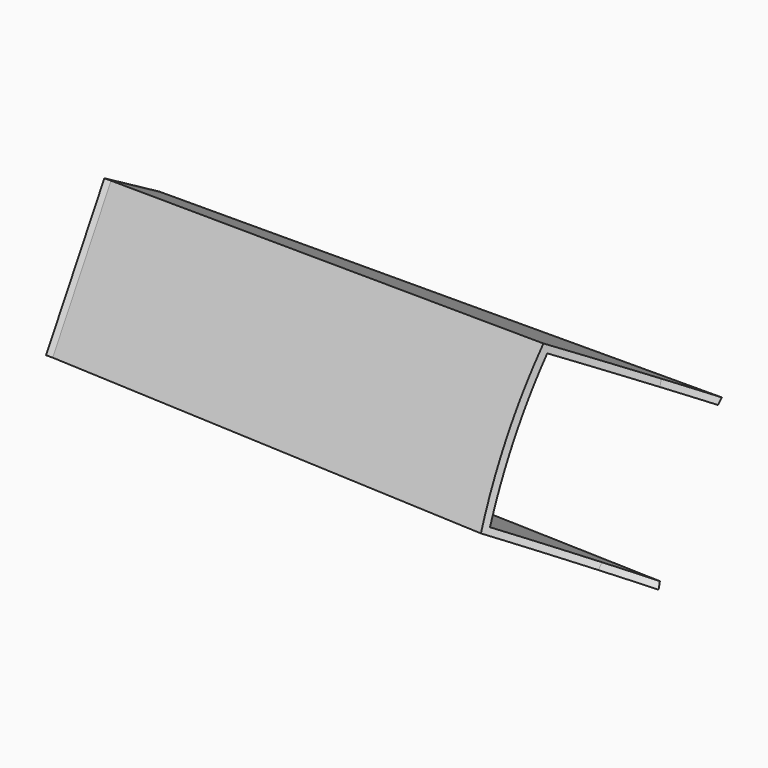
from build123d import *

# Parameters (mm, degrees)
SKETCH121_W             = 69.85
SKETCH121_H             = 38.1
PAD026_DEPTH            = 3.175
BODY036_PLACEMENT_ANGLE = 240


with BuildPart() as part:
    # Sketch119 → AdditiveLoft003 section 0
    with BuildSketch(Plane(origin=(-254, 0, 101.6), x_dir=(0, 1, 0), z_dir=(1, 0, 0))):
        Polygon((-38.1, 69.85), (-38.1, 0), (38.1, 0), (38.1, 69.8500000001), (34.925, 69.8500000001), (34.925, 3.175), (-34.925, 3.175), (-34.925, 69.85), align=None)
    # Sketch120 → AdditiveLoft003 section 1
    with BuildSketch(Plane(origin=(-558.8, 0, 127), x_dir=(0, 1, 0), z_dir=(1, 0, 0))):
        Polygon((-34.925, 82.55), (-34.925, 44.45), (34.925, 44.45), (34.925, 82.55), (31.75, 82.55), (31.75, 47.625), (-31.75, 47.625), (-31.75, 82.55), align=None)
    loft()

    # Sketch121 (on Face3 of AdditiveLoft003) → Pad026 (new body)
    with BuildSketch(Plane(origin=(-558.8, 0, 101.6), x_dir=(0, 1, 0), z_dir=(-1, 0, 0))):
        with Locations((0, -88.9)):
            Rectangle(SKETCH121_W, SKETCH121_H)
    extrude(amount=PAD026_DEPTH)

    # Sketch122 → Groove005 (revolve, cut)
    with BuildSketch(Plane.XZ):
        with BuildLine():
            ThreePointArc((-285.6448342114, 160.9012244898), (-330.0079117171, 85.8263739972), (-345.44, 0))
            Line((-345.44, 0), (0, 0))
            Line((0, 203.2), (0, 0))
            Line((-193.3141946016, 203.2), (0, 203.2))
            ThreePointArc((-193.3141946016, 203.2), (-244.0934556744, 192.1220184086), (-285.6448342114, 160.9012244898))
        make_face()
    revolve(axis=Axis((0, 0, 0), (1, 0, 0)), mode=Mode.SUBTRACT)


with BuildPart() as part_1:
    # Body036 placement: moved
    add(part.part.rotate(Axis((0, 0, 0), (1, 0, 0)), BODY036_PLACEMENT_ANGLE))


solid = part_1.part
